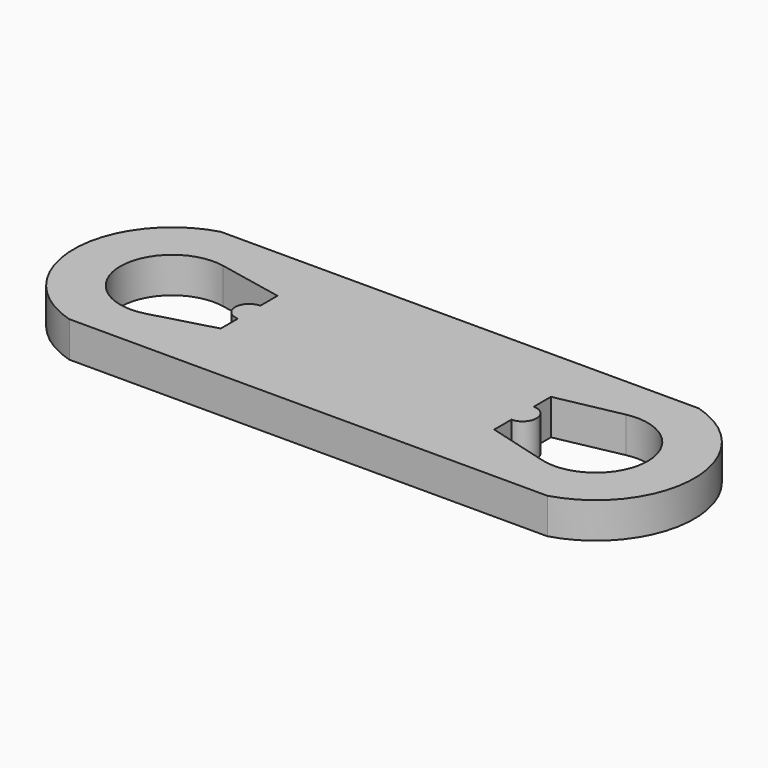
from build123d import *

# Parameters (mm, degrees)
F1_DEPTH = 5.842


with BuildPart() as f1:
    # F0 (on Top) → F1 (new body)
    with BuildSketch(Plane.XY):
        with BuildLine():
            Line((32.9855968278, 15.494), (-39.1355791353, 15.494))
            ThreePointArc((-39.1355791353, 15.494), (-50.8, 0), (-39.1355791353, -15.494))
            Line((-39.1355791353, -15.494), (32.4148003754, -15.494))
            Line((32.4148003754, -15.494), (32.4148003754, -8.1960921309))
            Line((32.4148003754, -8.1960921309), (22.3850345377, -5.4273527648))
            Line((22.3850345377, -5.4273527648), (22.3850345377, -1.9094527648))
            ThreePointArc((22.3850345377, -1.9094527648), (24.6710345377, 0.3765472352), (22.3850345377, 2.6625472352))
            Line((22.3850345377, 2.6625472352), (22.3850345377, 6.1804472352))
            Line((22.3850345377, 6.1804472352), (32.9855968278, 8.3326483321))
            Line((32.9855968278, 8.3326483321), (32.9855968278, 15.494))
        make_face()
        with BuildLine():
            Line((-22.3850345377, -5.4273527648), (-32.4148003754, -8.1960921309))
            ThreePointArc((-32.4148003754, -8.1960921309), (-43.1749345377, -0.2934519493), (-32.9855968278, 8.3326483321))
            Line((-32.9855968278, 8.3326483321), (-22.3850345377, 6.1804472352))
            Line((-22.3850345377, 6.1804472352), (-22.3850345377, 2.6625472352))
            ThreePointArc((-22.3850345377, 2.6625472352), (-24.6710345377, 0.3765472352), (-22.3850345377, -1.9094527648))
            Line((-22.3850345377, -1.9094527648), (-22.3850345377, -5.4273527648))
        make_face(mode=Mode.SUBTRACT)
        with BuildLine():
            Line((39.1355791353, 15.494), (32.9855968278, 15.494))
            Line((32.9855968278, 15.494), (32.9855968278, 8.3326483321))
            ThreePointArc((32.9855968278, 8.3326483321), (43.1749345377, -0.2934519493), (32.4148003754, -8.1960921309))
            Line((32.4148003754, -8.1960921309), (32.4148003754, -15.494))
            Line((32.4148003754, -15.494), (39.1355791353, -15.494))
            ThreePointArc((39.1355791353, -15.494), (50.8, 0), (39.1355791353, 15.494))
        make_face()
        with BuildLine():
            Line((32.9855968278, 15.494), (-39.1355791353, 15.494))
            ThreePointArc((-39.1355791353, 15.494), (-50.8, 0), (-39.1355791353, -15.494))
            Line((-39.1355791353, -15.494), (32.4148003754, -15.494))
            Line((32.4148003754, -15.494), (32.4148003754, -8.1960921309))
            Line((32.4148003754, -8.1960921309), (22.3850345377, -5.4273527648))
            Line((22.3850345377, -5.4273527648), (22.3850345377, -1.9094527648))
            ThreePointArc((22.3850345377, -1.9094527648), (24.6710345377, 0.3765472352), (22.3850345377, 2.6625472352))
            Line((22.3850345377, 2.6625472352), (22.3850345377, 6.1804472352))
            Line((22.3850345377, 6.1804472352), (32.9855968278, 8.3326483321))
            Line((32.9855968278, 8.3326483321), (32.9855968278, 15.494))
        make_face()
        with BuildLine():
            Line((-22.3850345377, -5.4273527648), (-32.4148003754, -8.1960921309))
            ThreePointArc((-32.4148003754, -8.1960921309), (-43.1749345377, -0.2934519493), (-32.9855968278, 8.3326483321))
            Line((-32.9855968278, 8.3326483321), (-22.3850345377, 6.1804472352))
            Line((-22.3850345377, 6.1804472352), (-22.3850345377, 2.6625472352))
            ThreePointArc((-22.3850345377, 2.6625472352), (-24.6710345377, 0.3765472352), (-22.3850345377, -1.9094527648))
            Line((-22.3850345377, -1.9094527648), (-22.3850345377, -5.4273527648))
        make_face(mode=Mode.SUBTRACT)
    extrude(amount=F1_DEPTH)


solid = f1.part
